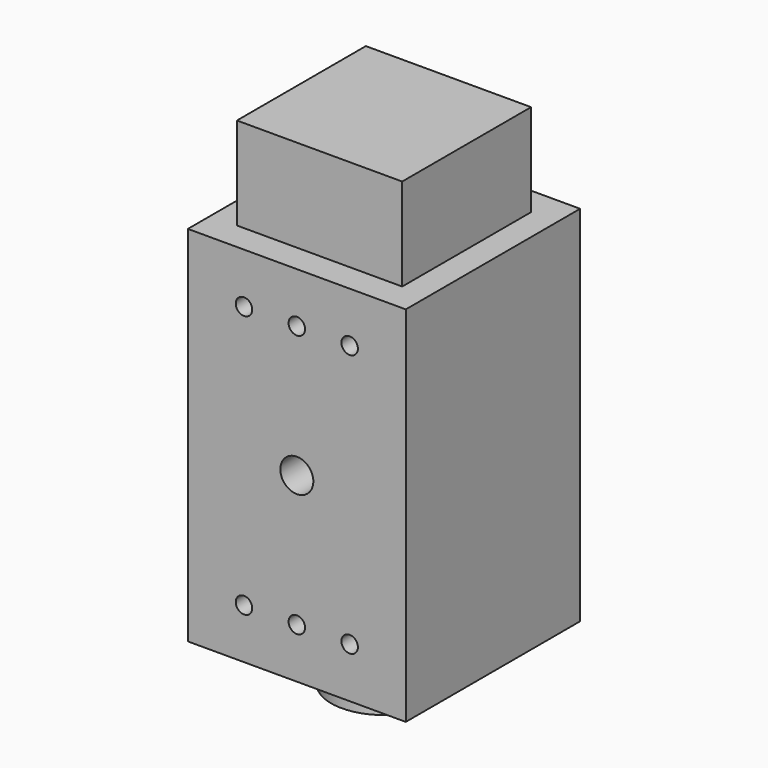
from build123d import *

# Parameters (mm, degrees)
F0_W     = 33
F0_H     = 33
F1_DEPTH = 55
F2_W     = 25.027660653
F2_H     = 24.4021397084
F3_DEPTH = 14
F4_R     = 8
F5_DEPTH = 7
F7_D     = 2.5
F8_D     = 5


with BuildPart() as f1:
    # F0 (on Top) → F1 (new body)
    with BuildSketch(Plane.XY):
        Rectangle(F0_W, F0_H)
    extrude(amount=F1_DEPTH)

    # F2 (on face) → F3 (join)
    with BuildSketch(Plane.XY.offset(55)):
        Rectangle(F2_W, F2_H)
    extrude(amount=F3_DEPTH)

    # F4 (on face) → F5 (join)
    with BuildSketch(Plane(origin=(0, 0, 0), x_dir=(1, 0, 0), z_dir=(0, 0, -1))):
        Circle(F4_R)
    extrude(amount=F5_DEPTH)

    # F7 (through all)
    with Locations(Plane.XZ.offset(16.5)):
        with Locations((-8, 47.4), (0, 47.4), (8, 47.4), (8, 7.6), (0, 7.6), (-8, 7.6)):
            Hole(F7_D / 2)

    # F8 (through all)
    with Locations(Plane.XZ.offset(16.5)):
        with Locations((0, 27.5)):
            Hole(F8_D / 2)


solid = f1.part
